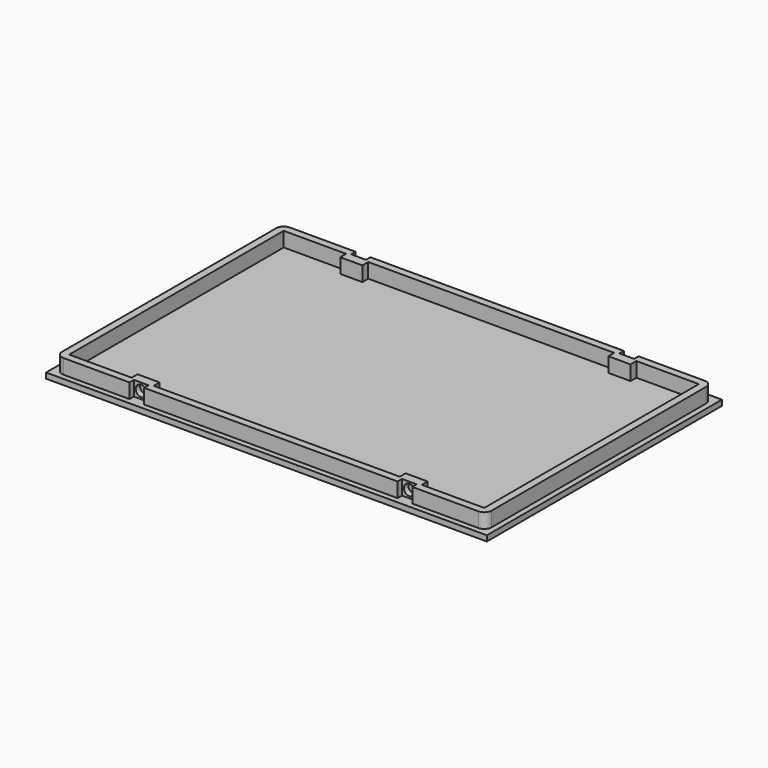
from build123d import *

# Parameters (mm, degrees)
SKETCH_W        = 120
SKETCH_H        = 80
PAD_DEPTH       = 1.5
SKETCH001_W     = 117
SKETCH001_H     = 77
PAD001_DEPTH    = 4
POCKET_DEPTH    = 4
SKETCH003_W     = 4
SKETCH003_H     = 4
POCKET001_DEPTH = 1.5
SKETCH004_W     = 4
SKETCH004_H     = 4
POCKET002_DEPTH = 1.5
FILLET_R        = 2
FILLET001_R     = 2
FILLET002_R     = 2
FILLET003_R     = 2
SKETCH005_R     = 1.5
POCKET003_DEPTH = 1.5
SKETCH006_R     = 1.5
POCKET004_DEPTH = 1.5
SKETCH007_R     = 1.5
POCKET005_DEPTH = 1.5
SKETCH008_R     = 1.5
POCKET006_DEPTH = 1.5


with BuildPart() as part:
    # Sketch → Pad (new body)
    with BuildSketch(Plane.XY):
        with Locations((24.76931, 10.449721)):
            Rectangle(SKETCH_W, SKETCH_H)
    extrude(amount=PAD_DEPTH)

    # Sketch001 (on Face6 of Pad) → Pad001 (join)
    with BuildSketch(Plane.XY.offset(1.5)):
        with Locations((24.76931, 10.449721)):
            Rectangle(SKETCH001_W, SKETCH001_H)
    extrude(amount=PAD001_DEPTH)

    # Sketch002 (on Face11 of Pad001) → Pocket (cut)
    with BuildSketch(Plane.XY.offset(5.5)):
        Polygon((81.26931, 46.966207), (81.26931, -26.050279), (64.26931, -26.050279), (64.26931, -24.050279), (58.26931, -24.050279), (58.26931, -26.050279), (-8.73069, -26.050279), (-8.73069, -24.050279), (-14.73069, -24.050279), (-14.73069, -26.050279), (-31.73069, -26.050279), (-31.73069, 46.949721), (-14.73069, 46.949721), (-14.73069, 44.949721), (-8.73069, 44.949721), (-8.73069, 46.949721), (58.26931, 46.949721), (58.26931, 44.966207), (64.26931, 44.966207), (64.26931, 46.966207), align=None)
    extrude(amount=-POCKET_DEPTH, mode=Mode.SUBTRACT)

    # Sketch003 (on Face9 of Pocket) → Pocket001 (cut)
    with BuildSketch(Plane.XZ.offset(28.050279)):
        with Locations((-11.73069, 3.5)):
            Rectangle(SKETCH003_W, SKETCH003_H)
        with Locations((61.26931, 3.5)):
            Rectangle(SKETCH003_W, SKETCH003_H)
    extrude(amount=-POCKET001_DEPTH, mode=Mode.SUBTRACT)

    # Sketch004 (on Face7 of Pocket001) → Pocket002 (cut)
    with BuildSketch(Plane(origin=(0, 48.949721, 0), x_dir=(-1, 0, 0), z_dir=(0, 1, 0))):
        with Locations((-61.26931, 3.5)):
            Rectangle(SKETCH004_W, SKETCH004_H)
        with Locations((11.73069, 3.5)):
            Rectangle(SKETCH004_W, SKETCH004_H)
    extrude(amount=-POCKET002_DEPTH, mode=Mode.SUBTRACT)

    # Fillet
    fillet_edges = [part.edges().sort_by_distance(p)[0] for p in [
        (-33.73069, 48.949721, 3.5),
    ]]
    fillet(fillet_edges, radius=FILLET_R)

    # Fillet001
    fillet001_edges = [part.edges().sort_by_distance(p)[0] for p in [
        (83.26931, 48.949721, 3.5),
    ]]
    fillet(fillet001_edges, radius=FILLET001_R)

    # Fillet002
    fillet002_edges = [part.edges().sort_by_distance(p)[0] for p in [
        (83.26931, -28.050279, 3.5),
    ]]
    fillet(fillet002_edges, radius=FILLET002_R)

    # Fillet003
    fillet003_edges = [part.edges().sort_by_distance(p)[0] for p in [
        (-33.73069, -28.050279, 3.5),
    ]]
    fillet(fillet003_edges, radius=FILLET003_R)

    # Sketch005 (on Face25 of Fillet003) → Pocket003 (cut)
    with BuildSketch(Plane.XZ.offset(26.550279)):
        with Locations((-11.73069, 3.5)):
            Circle(SKETCH005_R)
    extrude(amount=-POCKET003_DEPTH, mode=Mode.SUBTRACT)

    # Sketch006 (on Face28 of Pocket003) → Pocket004 (cut)
    with BuildSketch(Plane.XZ.offset(26.550279)):
        with Locations((61.26931, 3.5)):
            Circle(SKETCH006_R)
    extrude(amount=-POCKET004_DEPTH, mode=Mode.SUBTRACT)

    # Sketch007 (on Face34 of Pocket004) → Pocket005 (cut)
    with BuildSketch(Plane(origin=(0, 47.449721, 0), x_dir=(-1, 0, 0), z_dir=(0, 1, 0))):
        with Locations((-61.26931, 3.5)):
            Circle(SKETCH007_R)
    extrude(amount=-POCKET005_DEPTH, mode=Mode.SUBTRACT)

    # Sketch008 (on Face31 of Pocket005) → Pocket006 (cut)
    with BuildSketch(Plane(origin=(0, 47.449721, 0), x_dir=(-1, 0, 0), z_dir=(0, 1, 0))):
        with Locations((11.73069, 3.5)):
            Circle(SKETCH008_R)
    extrude(amount=-POCKET006_DEPTH, mode=Mode.SUBTRACT)


solid = part.part
